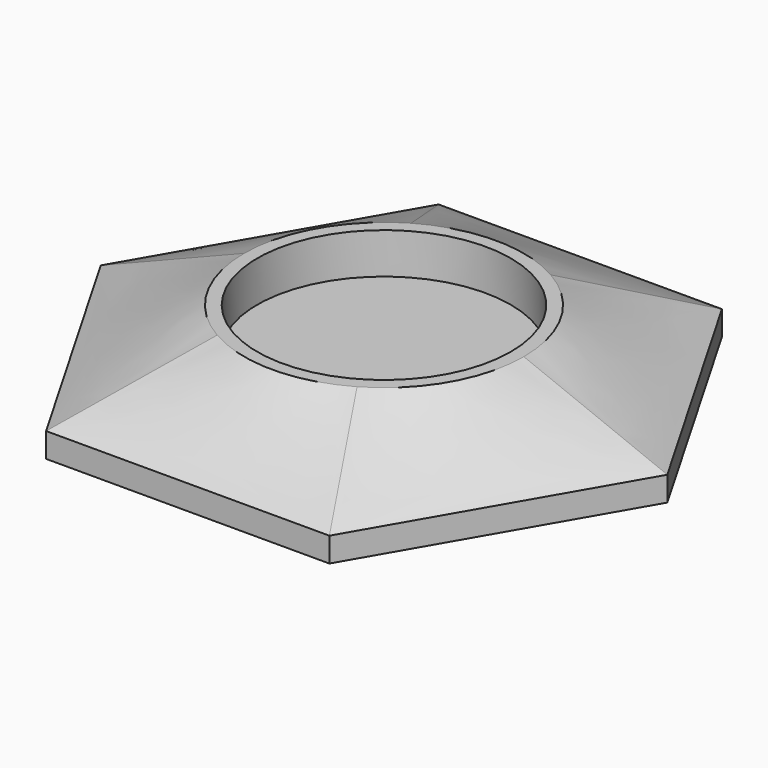
from build123d import *

# Parameters (mm, degrees)
F1_DEPTH = 3
F3_R     = 17.1
F5_R     = 15.5
F6_DEPTH = 5


with BuildPart() as f1:
    # F0 (on Top) → F1 (new body)
    with BuildSketch(Plane.XY):
        Polygon((17.320508, 30), (-17.320508, 30), (-34.641016, 0), (-17.320508, -30), (17.320508, -30), (34.641016, 0), align=None)
    extrude(amount=F1_DEPTH)

    # F1_face (on face) → F4 section 0
    with BuildSketch(Plane.XY.offset(3)):
        Polygon((17.320508, 30), (-17.320508, 30), (-34.641016, 0), (-17.320508, -30), (17.320508, -30), (34.641016, 0), align=None)
    # F3 (on offset) → F4 section 1
    with BuildSketch(Plane.XY.offset(10)):
        Circle(F3_R)
    loft()

    # F5 (on face) → F6 (cut)
    with BuildSketch(Plane.XY.offset(10)):
        Circle(F5_R)
    extrude(amount=-F6_DEPTH, mode=Mode.SUBTRACT)


solid = f1.part
